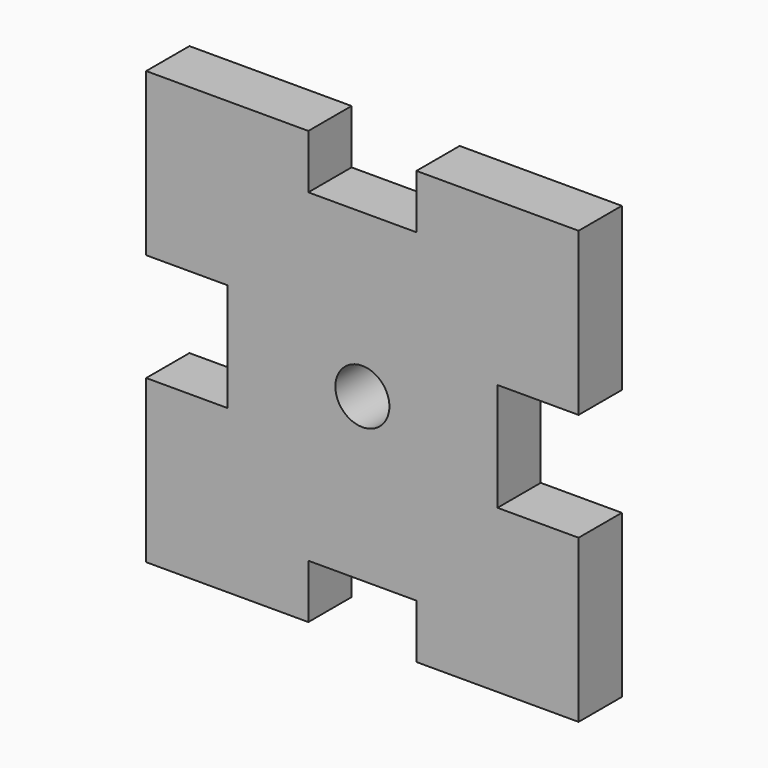
from build123d import *

# Parameters (mm, degrees)
F0_R     = 5
F1_DEPTH = 10


with BuildPart() as f1:
    # F0 (on Front) → F1 (new body)
    with BuildSketch(Plane.XZ):
        Polygon((10, 30), (0, 30), (-10, 30), (-10, 40), (-40, 40), (-40, 10), (-25, 10), (-25, 0), (-25, -10), (-40, -10), (-40, -40), (-10, -40), (-10, -30), (0, -30), (10, -30), (10, -40), (40, -40), (40, -10), (25, -10), (25, 0), (25, 10), (40, 10), (40, 40), (10, 40), align=None)
        Circle(F0_R, mode=Mode.SUBTRACT)
    extrude(amount=F1_DEPTH)


solid = f1.part
